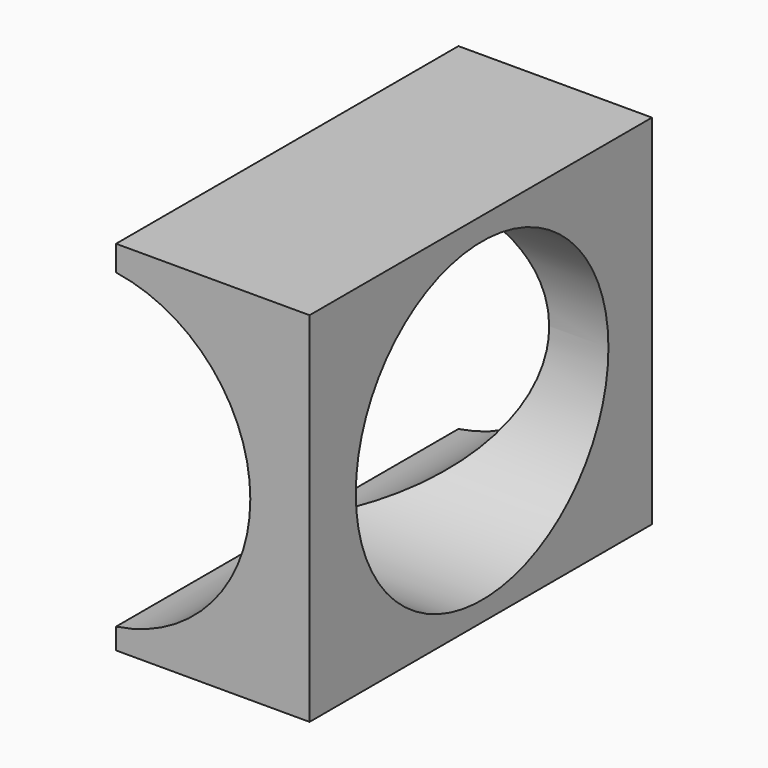
from build123d import *

# Parameters (mm, degrees)
F0_W      = 70.6123113632
F0_H      = 104.6859696507
F1_DEPTH  = 52.07
F2_R      = 20.6851974424
F3_DEPTH  = 118.618
F4_R      = 20.7250274732
F5_DEPTH  = 93.98
F6_DEPTH  = 21.59
F7_DEPTH  = 26.924
F8_DEPTH  = 13.208
F9_DEPTH  = 5.08
F10_DEPTH = 25.4


with BuildPart() as f1:
    # F0 (on Top) → F1 (new body)
    with BuildSketch(Plane.XY):
        Rectangle(F0_W, F0_H)
    extrude(amount=F1_DEPTH)

    # F2 (on face) → F3 (cut)
    with BuildSketch(Plane.XZ.offset(52.3429848254)):
        with Locations((-6.3621718436, 23.2127420604)):
            Circle(F2_R)
    extrude(amount=-F3_DEPTH, mode=Mode.SUBTRACT)

    # F4 (on face) → F5 (cut)
    with BuildSketch(Plane.YZ.offset(35.3061556816)):
        with Locations((2.8868210502, 23.3023613691)):
            Circle(F4_R)
    extrude(amount=-F5_DEPTH, mode=Mode.SUBTRACT)

    # F6 (cut): a face of the model
    f6_faces = [f1.faces().sort_by_distance(p)[0] for p in [
        (34.4288083492, 52.3429848254, 26.035),
    ]]
    extrude(f6_faces, amount=-F6_DEPTH, mode=Mode.SUBTRACT)

    # F7 (cut): a face of the model
    f7_faces = [f1.faces().sort_by_distance(p)[0] for p in [
        (-34.4288083492, -52.3429848254, 26.035),
    ]]
    extrude(f7_faces, amount=-F7_DEPTH, mode=Mode.SUBTRACT)

    # F8 (cut): a face of the model
    f8_faces = [f1.faces().sort_by_distance(p)[0] for p in [
        (35.3061556816, 2.667, 0.7659357071),
    ]]
    extrude(f8_faces, amount=-F8_DEPTH, mode=Mode.SUBTRACT)

    # F9 (cut): a face of the model
    f9_faces = [f1.faces().sort_by_distance(p)[0] for p in [
        (-6.604, 2.667, 52.07),
    ]]
    extrude(f9_faces, amount=-F9_DEPTH, mode=Mode.SUBTRACT)

    # F10 (intersect): a face of the model
    f10_faces = [f1.faces().sort_by_distance(p)[0] for p in [
        (22.0981556816, 2.667, 0.7323489793),
    ]]
    extrude(f10_faces, amount=-F10_DEPTH, mode=Mode.INTERSECT)


solid = f1.part
